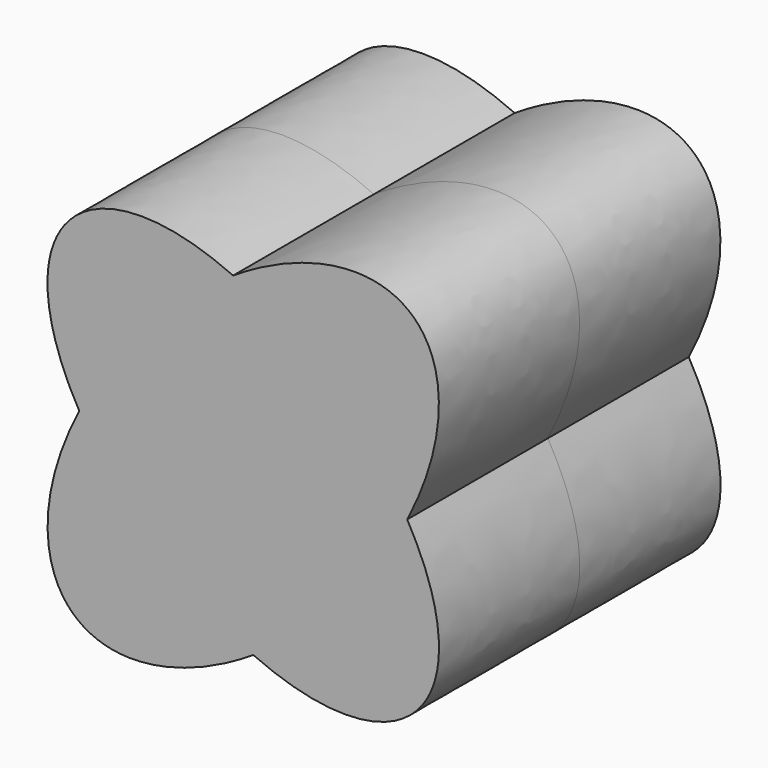
from build123d import *

# Parameters (mm, degrees)
F1_DEPTH = 25.4
F2_DEPTH = 25.4


with BuildPart() as f1:
    # F0 (on Front) → F1 (new body)
    with BuildSketch(Plane.XZ):
        with BuildLine():
            add(Edge.make_bspline(
                [(-1.4609789771, 23.6350009012), (-50.4713556046, 45.8621879662), (-23.6665204981, -0.8022061358)],
                knots=[5.2347493994, 5.2347493994, 5.2347493994, 7.331621215, 7.331621215, 7.331621215], degree=2, weights=[1, 0.4989271686, 1]))
            add(Edge.make_bspline(
                [(-23.6665204981, -0.8022061358), (-53.9238877001, -59.3432592816), (1.4609789771, -23.6350009012)],
                knots=[2.0417752323, 2.0417752323, 2.0417752323, 4.2414100749, 4.2414100749, 4.2414100749], degree=2, weights=[1, 0.4537588293, 1]))
            add(Edge.make_bspline(
                [(1.4609789771, -23.6350009012), (50.4713556046, -45.8621879662), (23.6665204981, 0.8022061358)],
                knots=[2.0931567458, 2.0931567458, 2.0931567458, 4.1900285614, 4.1900285614, 4.1900285614], degree=2, weights=[1, 0.4989271686, 1]))
            add(Edge.make_bspline(
                [(23.6665204981, 0.8022061358), (53.9238877001, 59.3432592816), (-1.4609789771, 23.6350009012)],
                knots=[5.1833678859, 5.1833678859, 5.1833678859, 7.3830027285, 7.3830027285, 7.3830027285], degree=2, weights=[1, 0.4537588293, 1]))
        make_face()
    extrude(amount=F1_DEPTH)

    # F2 (add): a face of the model
    f2_faces = [f1.faces().sort_by_distance(p)[0] for p in [
        (0, -25.4, -8.7174e-06),
    ]]
    extrude(f2_faces, amount=F2_DEPTH)


solid = f1.part
